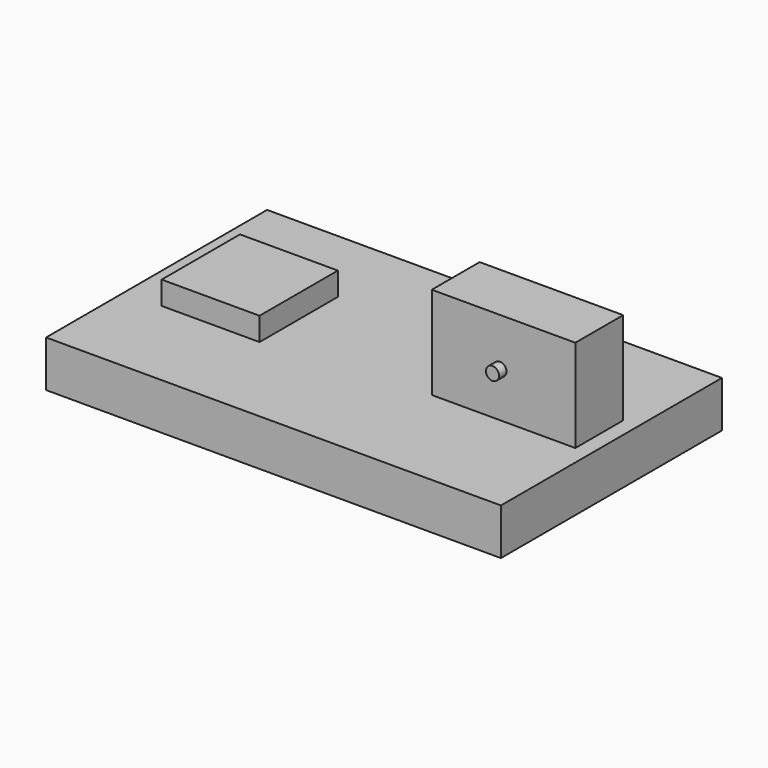
from build123d import *

# Parameters (mm, degrees)
F0_W     = 124.630935
F0_H     = 75.701751
F1_DEPTH = 12.7
F2_W     = 39.33452
F2_H     = 16.389386
F3_DEPTH = 25.4
F4_W     = 26.818996
F4_H     = 26.818994
F5_DEPTH = 6.35
F6_R     = 1.800148
F7_DEPTH = 2.54


with BuildPart() as f1:
    # F0 (on Top) → F1 (new body)
    with BuildSketch(Plane.XY):
        with Locations((4.154365, -3.461972)):
            Rectangle(F0_W, F0_H)
    extrude(amount=F1_DEPTH)

    # F2 (on face) → F3 (join)
    with BuildSketch(Plane.XY.offset(12.7)):
        with Locations((42.6124, -2.383911)):
            Rectangle(F2_W, F2_H)
    extrude(amount=F3_DEPTH)

    # F4 (on face) → F5 (join)
    with BuildSketch(Plane.XY.offset(12.7)):
        with Locations((-34.566705, -1.042961)):
            Rectangle(F4_W, F4_H)
    extrude(amount=F5_DEPTH)

    # F6 (on face) → F7 (join)
    with BuildSketch(Plane.XZ.offset(10.578604)):
        with Locations((41.615058, 25.010286)):
            Circle(F6_R)
    extrude(amount=F7_DEPTH)


solid = f1.part
